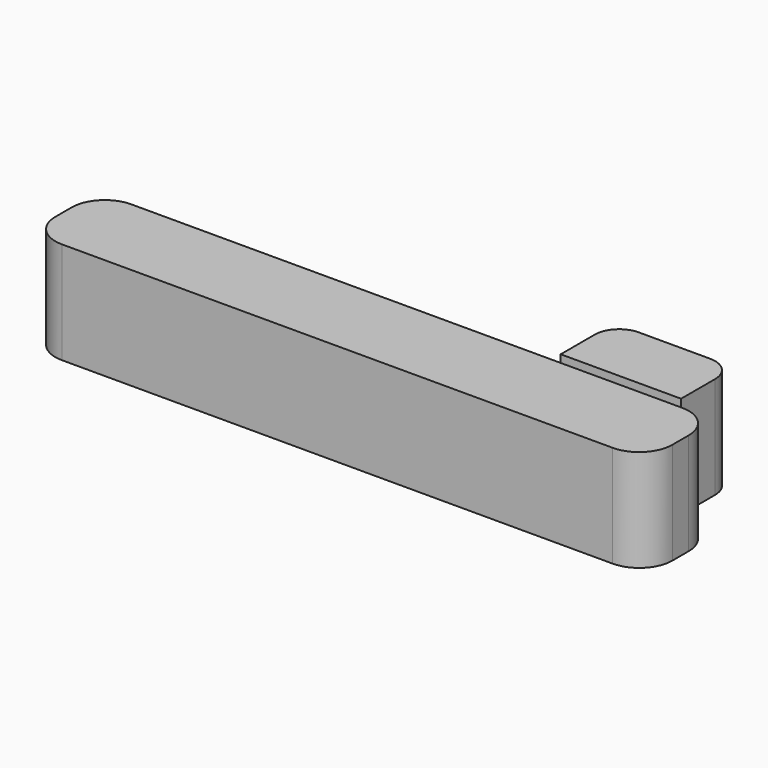
from build123d import *

# Parameters (mm, degrees)
EXTRUDE209_DEPTH = 10
EXTRUDE208_DEPTH = 10


with BuildPart() as obj1:
    # Sketch210 → Extrude209 (new body)
    with BuildSketch(Plane.XY.offset(-78)):
        with BuildLine():
            ThreePointArc((81, -8.75), (78.701903, -9.701903), (77.75, -12))
            Line((77.75, -12), (77.75, -14))
            ThreePointArc((77.75, -14), (78.701903, -16.298097), (81, -17.25))
            Line((81, -17.25), (135, -17.25))
            ThreePointArc((135, -17.25), (137.298097, -16.298097), (138.25, -14))
            Line((138.25, -14), (138.25, -12))
            ThreePointArc((138.25, -12), (137.298097, -9.701903), (135, -8.75))
            Line((135, -8.75), (81, -8.75))
        make_face()
    extrude(amount=-EXTRUDE209_DEPTH)


with BuildPart() as wirecuts:
    # Sketch209 → Extrude208 (new body)
    with BuildSketch(Plane.XY.offset(-77.25)):
        with BuildLine():
            ThreePointArc((125.5, -2.18), (123.802944, -2.882944), (123.1, -4.58))
            Line((123.1, -8.75), (123.1, -4.58))
            Line((134.9, -8.75), (123.1, -8.75))
            Line((134.9, -4.58), (134.9, -8.75))
            ThreePointArc((134.9, -4.58), (134.197056, -2.882944), (132.5, -2.18))
            Line((125.5, -2.18), (132.5, -2.18))
        make_face()
    extrude(amount=-EXTRUDE208_DEPTH)

    # Fusion202: union obj1
    add(obj1.part)


solid = wirecuts.part
